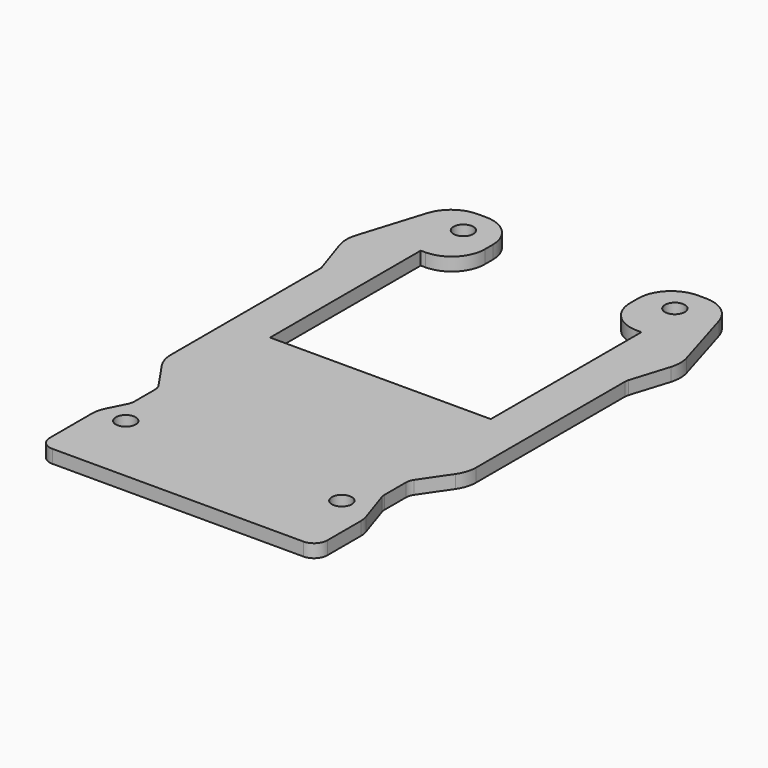
from build123d import *

# Parameters (mm, degrees)
F0_R     = 1.5
F1_DEPTH = 2
F2_R     = 5
F3_R     = 2
F4_R     = 4


with BuildPart() as f1:
    # F0 (on Top) → F1 (new body)
    with BuildSketch(Plane.XY):
        Polygon((16.7, -0.85), (-16.7, -0.85), (-16.7, 27.65), (-11, 27.65), (-11, 39.15), (-21, 39.15), (-25.6, 24.35), (-23.1, 16.824023), (-23.1, -13.15), (-19, -19.15), (-19, -24.15), (-21, -28.15), (-21, -39.15), (21, -39.15), (21, -30.170781), (19, -24.15), (19, -19.15), (23.1, -13.15), (23.1, 16.824023), (25.439155, 24.35), (21, 39.15), (11, 39.15), (11, 27.65), (16.7, 27.65), align=None)
        with Locations((-16.7, -28.15)):
            Circle(F0_R, mode=Mode.SUBTRACT)
        with Locations((16, -28.15)):
            Circle(F0_R, mode=Mode.SUBTRACT)
        with Locations((-16, 34.85)):
            Circle(F0_R, mode=Mode.SUBTRACT)
        with Locations((16, 34.85)):
            Circle(F0_R, mode=Mode.SUBTRACT)
    extrude(amount=F1_DEPTH)

    # F2
    f2_edges = [f1.edges().sort_by_distance(p)[0] for p in [
        (-11, 27.65, 1),
        (11, 27.65, 1),
        (11, 39.15, 1),
        (21, 39.15, 1),
        (-11, 39.15, 1),
        (-21, 39.15, 1),
        (-25.6, 24.35, 1),
        (25.439155, 24.35, 1),
        (23.1, -13.15, 1),
        (-23.1, -13.15, 1),
    ]]
    fillet(f2_edges, radius=F2_R)

    # F3
    f3_edges = [f1.edges().sort_by_distance(p)[0] for p in [
        (23.1, 16.824023, 1),
        (-23.1, 16.824023, 1),
        (-19, -19.15, 1),
        (-19, -24.15, 1),
        (19, -19.15, 1),
        (19, -24.15, 1),
        (21, -39.15, 1),
        (-21, -39.15, 1),
    ]]
    fillet(f3_edges, radius=F3_R)

    # F4
    f4_edges = [f1.edges().sort_by_distance(p)[0] for p in [
        (-21, -28.15, 1),
        (21, -30.170781, 1),
    ]]
    fillet(f4_edges, radius=F4_R)


solid = f1.part
